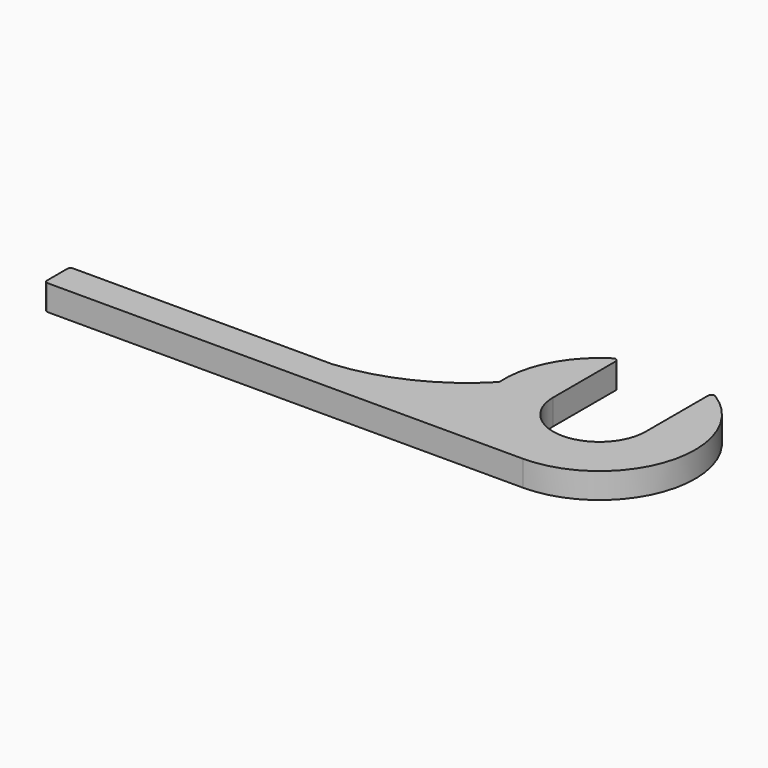
from build123d import *

# Parameters (mm, degrees)
F1_DEPTH = 40
F2_DEPTH = 40
F3_R     = 5


with BuildPart() as f1:
    # F0 (on Top) → F1 (new body)
    with BuildSketch(Plane.XY):
        with BuildLine():
            Line((72.5, 131.3154598667), (72.5, 0))
            ThreePointArc((72.5, 0), (0, -72.5), (-72.5, 0))
            Line((-72.5, 0), (-72.5, 131.3154598667))
            ThreePointArc((-72.5, 131.3154598667), (-131.4940701743, 72.1755464751), (-149.7084414814, -9.3478633504))
            ThreePointArc((-149.7084414814, -9.3478633504), (-138.3891727392, -57.8656795395), (-111.803398875, -100))
            Line((-111.803398875, -100), (0, -100))
            Line((0, -100), (0, -150))
            ThreePointArc((0, -150), (106.066017178, -106.066017178), (150, 0))
            ThreePointArc((150, 0), (129.1801068276, 76.2397534099), (72.5, 131.3154598667))
        make_face()
        with BuildLine():
            ThreePointArc((-72.5, 0), (0, 72.5), (72.5, 0))
            Line((72.5, 0), (72.5, 131.3154598667))
            ThreePointArc((72.5, 131.3154598667), (0, 150), (-72.5, 131.3154598667))
            Line((-72.5, 131.3154598667), (-72.5, 0))
        make_face()
        with BuildLine():
            ThreePointArc((-111.803398875, -100), (-138.3891727392, -57.8656795395), (-149.7084414814, -9.3478633504))
            ThreePointArc((-149.7084414814, -9.3478633504), (-236.0979616676, -71.7417201282), (-338.8482034206, -100))
            Line((-338.8482034206, -100), (-111.803398875, -100))
        make_face()
        with BuildLine():
            Line((-750, -150), (0, -150))
            ThreePointArc((0, -150), (-61.2372435696, -136.9306393763), (-111.803398875, -100))
            Line((-111.803398875, -100), (-338.8482034206, -100))
            Line((-338.8482034206, -100), (-750, -100))
            Line((-750, -100), (-750, -150))
        make_face()
        with BuildLine():
            ThreePointArc((-111.803398875, -100), (-61.2372435696, -136.9306393763), (0, -150))
            Line((0, -150), (0, -100))
            Line((0, -100), (-111.803398875, -100))
        make_face()
    extrude(amount=F1_DEPTH)

    # F0 (on Top) → F2 (cut)
    with BuildSketch(Plane.XY):
        with BuildLine():
            ThreePointArc((-72.5, 0), (0, 72.5), (72.5, 0))
            Line((72.5, 0), (72.5, 131.3154598667))
            ThreePointArc((72.5, 131.3154598667), (0, 150), (-72.5, 131.3154598667))
            Line((-72.5, 131.3154598667), (-72.5, 0))
        make_face()
    extrude(amount=F2_DEPTH, mode=Mode.SUBTRACT)

    # F3
    f3_edges = [f1.edges().sort_by_distance(p)[0] for p in [
        (-750, -150, 20),
        (-72.5, 131.31546, 20),
        (72.5, 131.31546, 20),
        (-750, -100, 20),
    ]]
    fillet(f3_edges, radius=F3_R)


solid = f1.part
